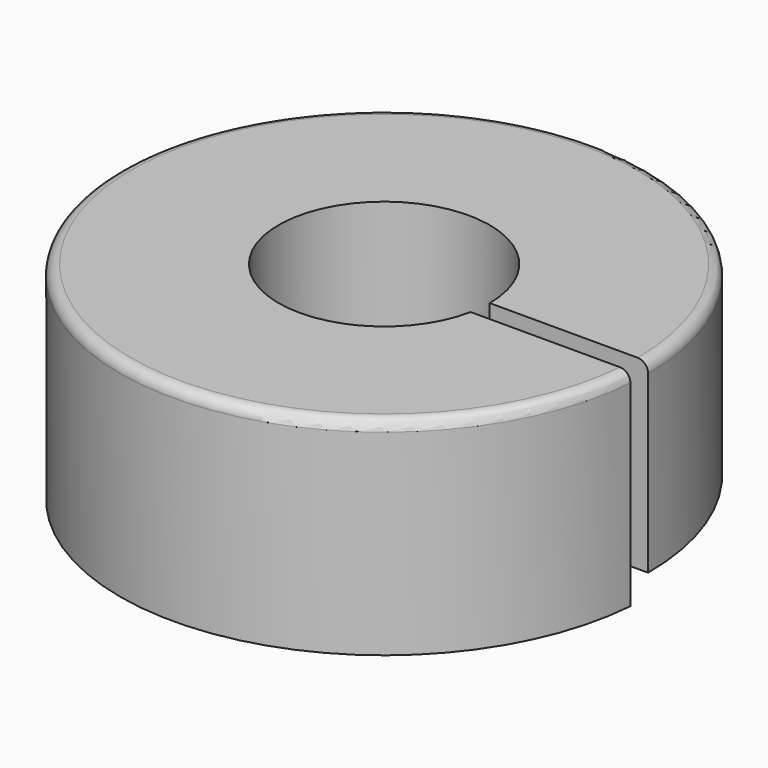
from build123d import *

# Parameters (mm, degrees)
SKETCH002_R     = 12.5
SKETCH002_R_2   = 5
PAD003_DEPTH    = 8.8
PAD004_DEPTH    = 1
FILLET001_R     = 0.5
SKETCH008_W     = 7.8
SKETCH008_H     = 1
POCKET001_DEPTH = 9.8


with BuildPart() as part:
    # Sketch002 → Pad003 (new body)
    with BuildSketch(Plane.XY.offset(21.2)):
        Circle(SKETCH002_R)
        Circle(SKETCH002_R_2, mode=Mode.SUBTRACT)
    extrude(amount=PAD003_DEPTH)

    # Sketch005 → Pad004 (new body)
    with BuildSketch(Plane(origin=(0, 0, 21.2), x_dir=(1, 0, 0), z_dir=(0, 0, -1))):
        with BuildLine():
            ThreePointArc((12.5, 0), (0, 12.5), (-12.5, 0))
            Line((-12.5, 0), (-5, 0))
            ThreePointArc((5, 0), (0, 5), (-5, 0))
            Line((5, 0), (12.5, 0))
        make_face()
    extrude(amount=PAD004_DEPTH)

    # Fillet001
    fillet001_edges = [part.edges().sort_by_distance(p)[0] for p in [
        (-12.5, 0, 30),
    ]]
    fillet(fillet001_edges, radius=FILLET001_R)

    # Sketch008 → Pocket001 (cut)
    with BuildSketch(Plane.XY.offset(30)):
        with Locations((8.7, -0.5)):
            Rectangle(SKETCH008_W, SKETCH008_H)
    extrude(amount=-POCKET001_DEPTH, mode=Mode.SUBTRACT)


solid = part.part
